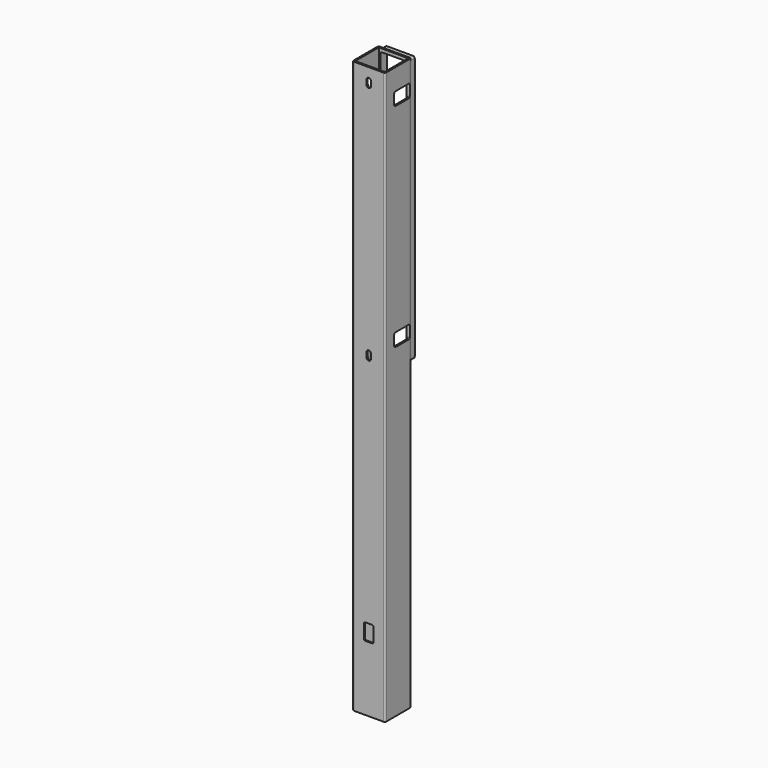
from build123d import *

# Parameters (mm, degrees)
F0_W      = 90
F0_H      = 90
F1_DEPTH  = 1750.5
F3_DEPTH  = 4
F5_DEPTH  = 25
F7_DEPTH  = 25
F9_DEPTH  = 25
F11_DEPTH = 25
F13_DEPTH = 20


with BuildPart() as f1:
    # F0 (on Top) → F1 (new body)
    with BuildSketch(Plane.XY):
        with BuildLine():
            ThreePointArc((50, 45), (48.5355339059, 48.5355339059), (45, 50))
            Line((45, 50), (-45, 50))
            ThreePointArc((-45, 50), (-48.5355339059, 48.5355339059), (-50, 45))
            Line((-50, 45), (-50, -45))
            ThreePointArc((-50, -45), (-48.5355339059, -48.5355339059), (-45, -50))
            Line((-45, -50), (45, -50))
            ThreePointArc((45, -50), (48.5355339059, -48.5355339059), (50, -45))
            Line((50, -45), (50, 45))
        make_face()
        Rectangle(F0_W, F0_H, mode=Mode.SUBTRACT)
    extrude(amount=F1_DEPTH)

    # F2 (on face) → F3 (cut)
    with BuildSketch(Plane.XZ.offset(50)):
        with BuildLine():
            ThreePointArc((-15, 205), (-13.5355339059, 201.4644660941), (-10, 200))
            Line((-10, 200), (10, 200))
            ThreePointArc((10, 200), (13.5355339059, 201.4644660941), (15, 205))
            Line((15, 205), (15, 245))
            ThreePointArc((15, 245), (13.5355339059, 248.5355339059), (10, 250))
            Line((10, 250), (-10, 250))
            ThreePointArc((-10, 250), (-13.5355339059, 248.5355339059), (-15, 245))
            Line((-15, 245), (-15, 205))
        make_face()
        with BuildLine():
            ThreePointArc((-15, 205), (-13.5355339059, 201.4644660941), (-10, 200))
            Line((-10, 200), (10, 200))
            ThreePointArc((10, 200), (13.5355339059, 201.4644660941), (15, 205))
            Line((15, 205), (15, 245))
            ThreePointArc((15, 245), (13.5355339059, 248.5355339059), (10, 250))
            Line((10, 250), (-10, 250))
            ThreePointArc((-10, 250), (-13.5355339059, 248.5355339059), (-15, 245))
            Line((-15, 245), (-15, 205))
        make_face()
    extrude(amount=-F3_DEPTH, mode=Mode.SUBTRACT)

    # F4 (on face) → F5 (cut)
    with BuildSketch(Plane(origin=(0, 50, 0), x_dir=(-1, 0, 0), z_dir=(0, 1, 0))):
        with BuildLine():
            Line((35, 1740.5), (-35, 1740.5))
            ThreePointArc((-35, 1740.5), (-38.5355339059, 1739.0355339059), (-40, 1735.5))
            Line((-40, 1735.5), (-40, 940.5))
            ThreePointArc((-40, 940.5), (-38.5355339059, 936.9644660941), (-35, 935.5))
            Line((-35, 935.5), (35, 935.5))
            ThreePointArc((35, 935.5), (38.5355339059, 936.9644660941), (40, 940.5))
            Line((40, 940.5), (40, 1735.5))
            ThreePointArc((40, 1735.5), (38.5355339059, 1739.0355339059), (35, 1740.5))
        make_face()
    extrude(amount=-F5_DEPTH, mode=Mode.SUBTRACT)

    # F6 (on face) → F7 (cut)
    with BuildSketch(Plane.XZ.offset(50)):
        with BuildLine():
            Line((7, 966), (7, 980))
            ThreePointArc((7, 980), (0, 987), (-7, 980))
            Line((-7, 980), (-7, 966))
            ThreePointArc((-7, 966), (0, 959), (7, 966))
        make_face()
        with BuildLine():
            Line((-7, 1715), (-7, 1701))
            ThreePointArc((-7, 1701), (0, 1694), (7, 1701))
            Line((7, 1701), (7, 1715))
            ThreePointArc((7, 1715), (0, 1722), (-7, 1715))
        make_face()
    extrude(amount=-F7_DEPTH, mode=Mode.SUBTRACT)

    # F8 (on face) → F9 (cut)
    with BuildSketch(Plane.YZ.offset(50)):
        with BuildLine():
            Line((45, 1000.5), (45, 1030.5))
            ThreePointArc((45, 1030.5), (43.5355339059, 1034.0355339059), (40, 1035.5))
            Line((40, 1035.5), (-10, 1035.5))
            ThreePointArc((-10, 1035.5), (-13.5355339059, 1034.0355339059), (-15, 1030.5))
            Line((-15, 1030.5), (-15, 1000.5))
            ThreePointArc((-15, 1000.5), (-13.5355339059, 996.9644660941), (-10, 995.5))
            Line((-10, 995.5), (40, 995.5))
            ThreePointArc((40, 995.5), (43.5355339059, 996.9644660941), (45, 1000.5))
        make_face()
        with BuildLine():
            Line((40, 1685.5), (-10, 1685.5))
            ThreePointArc((-10, 1685.5), (-13.5355339059, 1684.0355339059), (-15, 1680.5))
            Line((-15, 1680.5), (-15, 1650.5))
            ThreePointArc((-15, 1650.5), (-13.5355339059, 1646.9644660941), (-10, 1645.5))
            Line((-10, 1645.5), (40, 1645.5))
            ThreePointArc((40, 1645.5), (43.5355339059, 1646.9644660941), (45, 1650.5))
            Line((45, 1650.5), (45, 1680.5))
            ThreePointArc((45, 1680.5), (43.5355339059, 1684.0355339059), (40, 1685.5))
        make_face()
    extrude(amount=-F9_DEPTH, mode=Mode.SUBTRACT)

    # F10 (on face) → F11 (cut)
    with BuildSketch(Plane(origin=(-50, 0, 0), x_dir=(0, -1, 0), z_dir=(-1, 0, 0))):
        with BuildLine():
            Line((10, 1685.5), (-40, 1685.5))
            ThreePointArc((-40, 1685.5), (-43.5355339059, 1684.0355339059), (-45, 1680.5))
            Line((-45, 1680.5), (-45, 1650.5))
            ThreePointArc((-45, 1650.5), (-43.5355339059, 1646.9644660941), (-40, 1645.5))
            Line((-40, 1645.5), (10, 1645.5))
            ThreePointArc((10, 1645.5), (13.5355339059, 1646.9644660941), (15, 1650.5))
            Line((15, 1650.5), (15, 1680.5))
            ThreePointArc((15, 1680.5), (13.5355339059, 1684.0355339059), (10, 1685.5))
        make_face()
        with BuildLine():
            ThreePointArc((-40, 1035.5), (-43.5355339059, 1034.0355339059), (-45, 1030.5))
            Line((-45, 1030.5), (-45, 1000.5))
            ThreePointArc((-45, 1000.5), (-43.5355339059, 996.9644660941), (-40, 995.5))
            Line((-40, 995.5), (10, 995.5))
            ThreePointArc((10, 995.5), (13.5355339059, 996.9644660941), (15, 1000.5))
            Line((15, 1000.5), (15, 1030.5))
            ThreePointArc((15, 1030.5), (13.5355339059, 1034.0355339059), (10, 1035.5))
            Line((10, 1035.5), (-40, 1035.5))
        make_face()
    extrude(amount=-F11_DEPTH, mode=Mode.SUBTRACT)

    # F12 (on face) → F13 (join)
    with BuildSketch(Plane(origin=(0, 50, 0), x_dir=(-1, 0, 0), z_dir=(0, 1, 0))):
        with BuildLine():
            ThreePointArc((-45, 935.5), (-43.5355339059, 931.9644660941), (-40, 930.5))
            Line((-40, 930.5), (40, 930.5))
            ThreePointArc((40, 930.5), (43.5355339059, 931.9644660941), (45, 935.5))
            Line((45, 935.5), (45, 1740.3495705284))
            ThreePointArc((45, 1740.3495705284), (43.5355339059, 1743.8851044344), (40, 1745.3495705284))
            Line((40, 1745.3495705284), (-40, 1745.3495705284))
            ThreePointArc((-40, 1745.3495705284), (-43.5355339059, 1743.8851044344), (-45, 1740.3495705284))
            Line((-45, 1740.3495705284), (-45, 935.5))
        make_face()
        with BuildLine():
            Line((-40, 1735.5), (-40, 1740.3495705284))
            Line((-40, 1740.3495705284), (-36.2172369078, 1740.3495705284))
            ThreePointArc((-36.2172369078, 1740.3495705284), (-35.6132484642, 1740.4622501268), (-35, 1740.5))
            Line((-35, 1740.5), (35, 1740.5))
            ThreePointArc((35, 1740.5), (35.6132484642, 1740.4622501268), (36.2172369078, 1740.3495705284))
            Line((36.2172369078, 1740.3495705284), (40, 1740.3495705284))
            Line((40, 1740.3495705284), (40, 1735.5))
            Line((40, 1735.5), (40, 940.5))
            Line((40, 940.5), (40, 935.5))
            Line((40, 935.5), (35, 935.5))
            Line((35, 935.5), (-35, 935.5))
            Line((-35, 935.5), (-40, 935.5))
            Line((-40, 935.5), (-40, 940.5))
            Line((-40, 940.5), (-40, 1735.5))
        make_face(mode=Mode.SUBTRACT)
    extrude(amount=F13_DEPTH)


solid = f1.part
